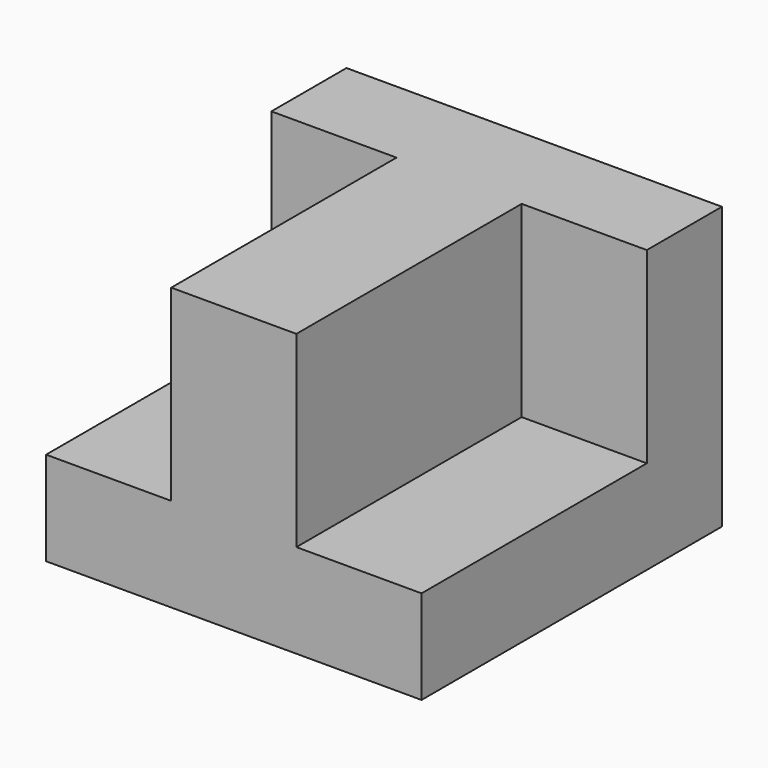
from build123d import *

# Parameters (mm, degrees)
F0_W     = 152.4
F0_H     = 114.3
F1_DEPTH = 152.4
F2_W     = 50.8
F2_H     = 76.2
F3_DEPTH = 114.3
F4_DEPTH = 114.3


with BuildPart() as f1:
    # F0 (on Front) → F1 (new body)
    with BuildSketch(Plane.XZ):
        Rectangle(F0_W, F0_H)
    extrude(amount=F1_DEPTH)

    # F2 (on face) → F3 (cut)
    with BuildSketch(Plane.XZ.offset(152.4)):
        with Locations((-50.8, 19.05)):
            Rectangle(F2_W, F2_H)
    extrude(amount=-F3_DEPTH, mode=Mode.SUBTRACT)

    # F2 (on face) → F4 (cut)
    with BuildSketch(Plane.XZ.offset(152.4)):
        with Locations((50.8, 19.05)):
            Rectangle(F2_W, F2_H)
    extrude(amount=-F4_DEPTH, mode=Mode.SUBTRACT)


solid = f1.part
